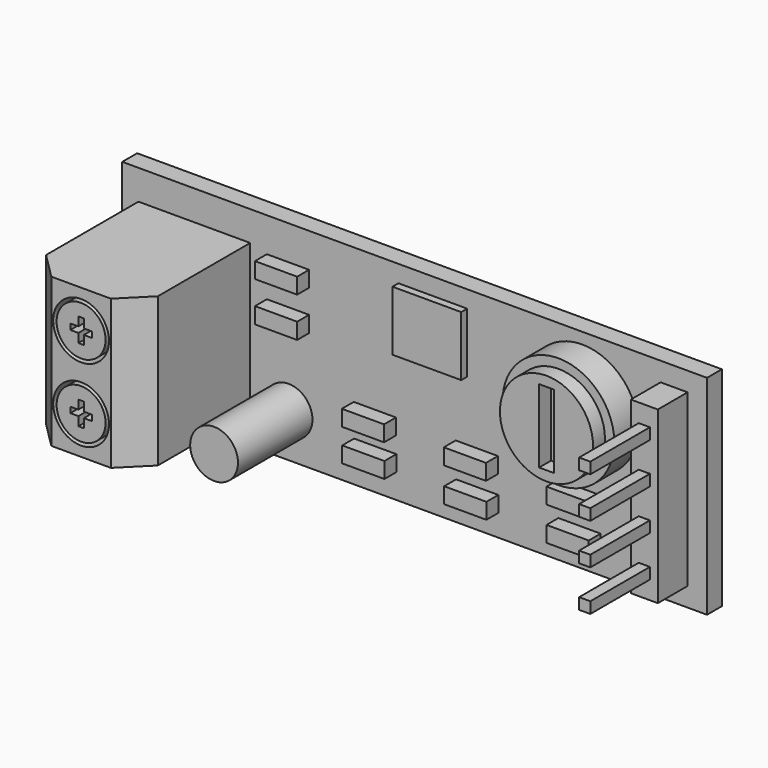
from build123d import *

# Parameters (mm, degrees)
F0_W      = 39.878
F0_H      = 14.224
F1_DEPTH  = 1.27
F2_W      = 7.62
F2_H      = 10.16
F3_DEPTH  = 9.652
F4_SIZE   = 1.778
F5_R      = 1.905
F6_DEPTH  = 6.35
F7_W      = 4.6894205734
F7_H      = 2.4203467183
F8_DEPTH  = 5.08
F9_R      = 1.6697821783
F10_DEPTH = 7.62
F11_W     = 0.3728192511
F11_H     = 0.6050870288
F11_W_2   = 0.5483608693
F11_H_2   = 0.3921133466
F12_DEPTH = 2.54
F14_W     = 1.8415860832
F14_H     = 11.6279795766
F15_DEPTH = 2.54
F16_W     = 0.762
F16_H     = 0.762
F17_DEPTH = 5.08
F18_R     = 1.6292454542
F19_DEPTH = 6.35
F20_W     = 4.6894233674
F20_H     = 4.0843365714
F21_DEPTH = 0.508
F22_R     = 3.81
F23_DEPTH = 2.032
F24_R     = 3.175
F24_W     = 1.0030101985
F24_H     = 5.0061298534
F25_DEPTH = 1.016
F26_W     = 2.878293395
F26_H     = 1.0793600231
F27_DEPTH = 1.016
F26_H_2   = 1.0977436526


with BuildPart() as f1:
    # F0 (on Front) → F1 (new body)
    with BuildSketch(Plane.XZ):
        Rectangle(F0_W, F0_H)
    extrude(amount=F1_DEPTH)


with BuildPart() as f3:
    # F2 (on face) → F3 (new body)
    with BuildSketch(Plane.XZ.offset(1.27)):
        with Locations((-15.0233691664, 0)):
            Rectangle(F2_W, F2_H)
    extrude(amount=F3_DEPTH)

    # F4
    f4_edges = [f3.edges().sort_by_distance(p)[0] for p in [
        (-18.833369, -10.922, 0),
        (-11.213369, -10.922, 0),
    ]]
    chamfer(f4_edges, length=F4_SIZE)

    # F5 (on face) → F6 (cut)
    with BuildSketch(Plane.XZ.offset(10.922)):
        with Locations((-15.0233691664, 2.4974399712)):
            Circle(F5_R)
        with Locations((-15.0233691664, -2.4974399712)):
            Circle(F5_R)
    extrude(amount=-F6_DEPTH, mode=Mode.SUBTRACT)

    # F7 (on face) → F8 (cut)
    with BuildSketch(Plane(origin=(-18.8333691664, 0, 0), x_dir=(0, -1, 0), z_dir=(-1, 0, 0))):
        with Locations((4.9085379578, 2.3046669085)):
            Rectangle(F7_W, F7_H)
        with Locations((4.9085379578, -2.3046669085)):
            Rectangle(F7_W, F7_H)
    extrude(amount=-F8_DEPTH, mode=Mode.SUBTRACT)


with BuildPart() as f10:
    # F9 (on face) → F10 (new body)
    with BuildSketch(Plane.XZ.offset(10.922)):
        with Locations((-15.0233691664, 2.4974399712)):
            Circle(F9_R)
    extrude(amount=-F10_DEPTH)

    # F11 (on face) → F12 (cut)
    with BuildSketch(Plane.XZ.offset(10.922)):
        with Locations((-15.0233691664, 2.9960401589)):
            Rectangle(F11_W, F11_H)
        with Locations((-14.5627791062, 2.4974399712)):
            Rectangle(F11_W_2, F11_H_2)
        with Locations((-15.0233691664, 2.4974399712)):
            Rectangle(F11_W, F11_H_2)
        with Locations((-15.4839592266, 2.4974399712)):
            Rectangle(F11_W_2, F11_H_2)
        with Locations((-15.0233691664, 1.9988397835)):
            Rectangle(F11_W, F11_H)
    extrude(amount=-F12_DEPTH, mode=Mode.SUBTRACT)


with BuildPart() as f13_1:
    # F13: instance of F10
    add(f10.part.mirror(Plane.XY))


with BuildPart() as f15:
    # F14 (on face) → F15 (new body)
    with BuildSketch(Plane.XZ.offset(1.27)):
        with Locations((17.6946166903, 0)):
            Rectangle(F14_W, F14_H)
    extrude(amount=F15_DEPTH)


with BuildPart() as f17:
    # F16 (on face) → F17 (new body)
    with BuildSketch(Plane.XZ.offset(3.81)):
        with Locations((17.6946166903, -1.397)):
            Rectangle(F16_W, F16_H)
    extrude(amount=F17_DEPTH)


with BuildPart() as f17b:
    # F16 (on face) → F17, piece 2 (new body)
    with BuildSketch(Plane.XZ.offset(3.81)):
        with Locations((17.6946166903, -4.191)):
            Rectangle(F16_W, F16_H)
    extrude(amount=F17_DEPTH)


with BuildPart() as f17c:
    # F16 (on face) → F17, piece 3 (new body)
    with BuildSketch(Plane.XZ.offset(3.81)):
        with Locations((17.6946166903, 1.397)):
            Rectangle(F16_W, F16_H)
    extrude(amount=F17_DEPTH)


with BuildPart() as f17d:
    # F16 (on face) → F17, piece 4 (new body)
    with BuildSketch(Plane.XZ.offset(3.81)):
        with Locations((17.6946166903, 4.191)):
            Rectangle(F16_W, F16_H)
    extrude(amount=F17_DEPTH)


with BuildPart() as f19:
    # F18 (on face) → F19 (new body)
    with BuildSketch(Plane.XZ.offset(1.27)):
        with Locations((-8.5961502045, -4.1514476761)):
            Circle(F18_R)
    extrude(amount=F19_DEPTH)


with BuildPart() as f21:
    # F20 (on face) → F21 (new body)
    with BuildSketch(Plane.XZ.offset(1.27)):
        with Locations((1.2396881357, 3.9048832841)):
            Rectangle(F20_W, F20_H)
    extrude(amount=F21_DEPTH)


with BuildPart() as f23:
    # F22 (on face) → F23 (new body)
    with BuildSketch(Plane.XZ.offset(1.27)):
        with Locations((11.43, 2.54)):
            Circle(F22_R)
    extrude(amount=F23_DEPTH)


with BuildPart() as f25:
    # F24 (on face) → F25 (new body)
    with BuildSketch(Plane.XZ.offset(3.302)):
        with Locations((11.43, 2.54)):
            Circle(F24_R)
        with Locations((11.43, 2.54)):
            Rectangle(F24_W, F24_H, mode=Mode.SUBTRACT)
    extrude(amount=F25_DEPTH)


with BuildPart() as f27:
    # F26 (on face) → F27 (new body)
    with BuildSketch(Plane.XZ.offset(1.27)):
        with Locations((-8.6374529637, 4.2334846221)):
            Rectangle(F26_W, F26_H)
    extrude(amount=F27_DEPTH)


with BuildPart() as f27b:
    # F26 (on face) → F27, piece 2 (new body)
    with BuildSketch(Plane.XZ.offset(1.27)):
        with Locations((-8.6374529637, 1.5217887805)):
            Rectangle(F26_W, F26_H_2)
    extrude(amount=F27_DEPTH)


with BuildPart() as f27c:
    # F26 (on face) → F27, piece 3 (new body)
    with BuildSketch(Plane.XZ.offset(1.27)):
        with Locations((-2.7124148328, -2.7052904479)):
            Rectangle(F26_W, F26_H)
    extrude(amount=F27_DEPTH)


with BuildPart() as f27d:
    # F26 (on face) → F27, piece 4 (new body)
    with BuildSketch(Plane.XZ.offset(1.27)):
        with Locations((-2.6856730692, -4.8980773427)):
            Rectangle(F26_W, F26_H)
    extrude(amount=F27_DEPTH)


with BuildPart() as f27e:
    # F26 (on face) → F27, piece 5 (new body)
    with BuildSketch(Plane.XZ.offset(1.27)):
        with Locations((4.2403256521, -2.7587728109)):
            Rectangle(F26_W, F26_H)
    extrude(amount=F27_DEPTH)


with BuildPart() as f27f:
    # F26 (on face) → F27, piece 6 (new body)
    with BuildSketch(Plane.XZ.offset(1.27)):
        with Locations((4.2670681141, -5.0852666609)):
            Rectangle(F26_W, F26_H)
    extrude(amount=F27_DEPTH)


with BuildPart() as f27g:
    # F26 (on face) → F27, piece 7 (new body)
    with BuildSketch(Plane.XZ.offset(1.27)):
        with Locations((11.2465489656, -2.8389971703)):
            Rectangle(F26_W, F26_H)
    extrude(amount=F27_DEPTH)


with BuildPart() as f27h:
    # F26 (on face) → F27, piece 8 (new body)
    with BuildSketch(Plane.XZ.offset(1.27)):
        with Locations((11.2465489656, -5.1387492567)):
            Rectangle(F26_W, F26_H)
    extrude(amount=F27_DEPTH)


solid = Compound([f1.part, f3.part, f10.part, f13_1.part, f15.part, f17.part, f17b.part, f17c.part, f17d.part, f19.part, f21.part, f23.part, f25.part, f27.part, f27b.part, f27c.part, f27d.part, f27e.part, f27f.part, f27g.part, f27h.part])
